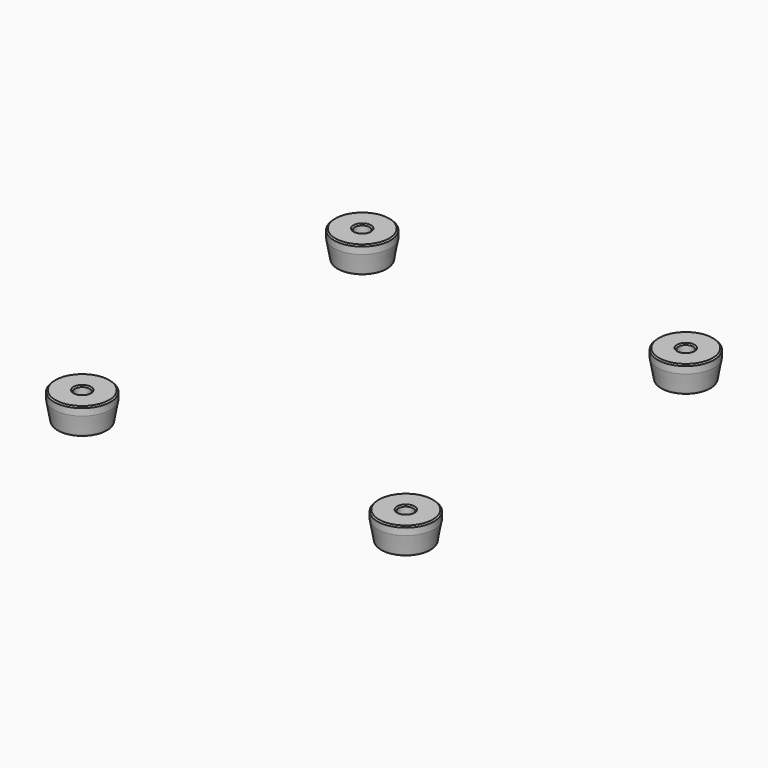
from build123d import *

# Parameters (mm, degrees)
FILLET002_R      = 0.5
CHAMFER003_SIZE  = 0.4
ARRAY004_X_COUNT = 2
ARRAY004_X_PITCH = 98
ARRAY004_Y_COUNT = 2
ARRAY004_Y_PITCH = 106


with BuildPart() as part:
    # Sketch023 → Revolution001 (revolve)
    with BuildSketch(Plane.XZ):
        Polygon((2.25, 0), (2.25, 2.5), (8.557962, 2.5), (8.557962, 0), (7.5, -6), (4.25, -6), (4.25, 0), align=None)
    revolve(axis=Axis((0, 0, 0), (0, 0, 1)))

    # Fillet002
    fillet002_edges = [part.edges().sort_by_distance(p)[0] for p in [
        (-7.5, 0, -6),
        (-4.25, 0, -6),
    ]]
    fillet(fillet002_edges, radius=FILLET002_R)

    # Chamfer003
    chamfer003_edges = [part.edges().sort_by_distance(p)[0] for p in [
        (-2.25, 0, 2.5),
        (-8.557962, 0, 2.5),
    ]]
    chamfer(chamfer003_edges, length=CHAMFER003_SIZE)


with BuildPart() as part_1:
    # Body006 placement: moved
    add(part.part.moved(Location((-49, -53, 0))))

    # Array004 X: part ×2


with BuildPart() as part_2:
    add(part_1.part)
    with Locations(*[(i * ARRAY004_X_PITCH, 0, 0) for i in range(1, ARRAY004_X_COUNT)]):
        add(part_1.part)

    # Array004 Y: part ×2


with BuildPart() as part_3:
    add(part_2.part)
    with Locations(*[(0, i * ARRAY004_Y_PITCH, 0) for i in range(1, ARRAY004_Y_COUNT)]):
        add(part_2.part)


with BuildPart() as part_4:
    # Array004 placement: moved
    add(part_3.part.moved(Location((0, 0, -3))))


solid = part_4.part
